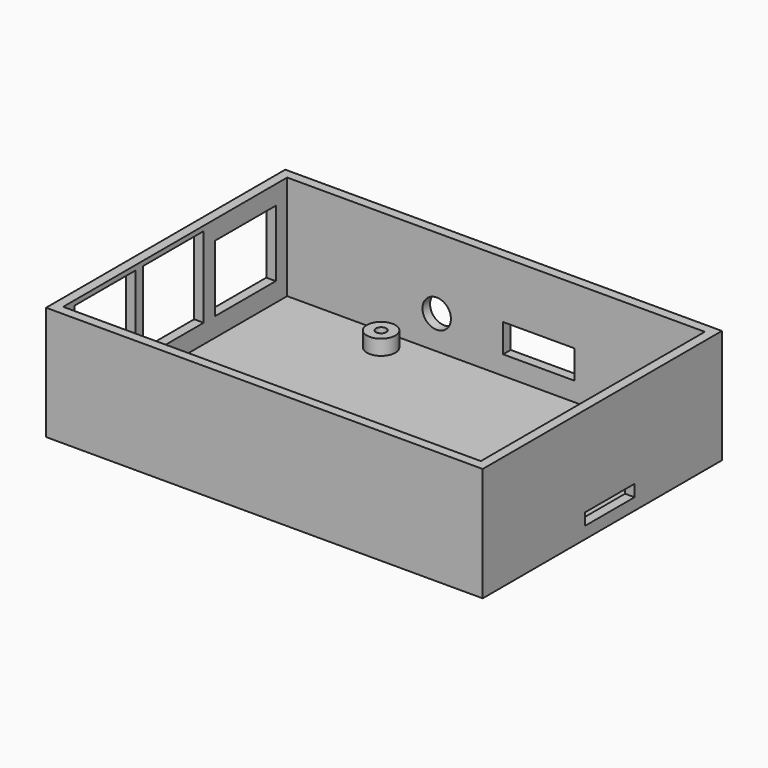
from build123d import *

# Parameters (mm, degrees)
SKETCH006_W   = 13
SKETCH006_H   = 2.5
PAD006_DEPTH  = 3
SKETCH005_R   = 3
SKETCH005_W   = 15
SKETCH005_H   = 6
SKETCH005_W_2 = 9
SKETCH005_H_2 = 3
PAD005_DEPTH  = 3
SKETCH004_W   = 16
SKETCH004_H   = 14
SKETCH004_H_2 = 17
PAD004_DEPTH  = 3
SKETCH003_W   = 92
SKETCH003_H   = 63
SKETCH003_W_2 = 88
SKETCH003_H_2 = 59
PAD003_DEPTH  = 24
SKETCH002_W   = 88
SKETCH002_H   = 59
PAD002_DEPTH  = 2
SKETCH_R      = 1.1
PAD_DEPTH     = 6.5
SKETCH001_R   = 3
PAD001_DEPTH  = 5


with BuildPart() as pad006:
    # Sketch006 → Pad006 (new body)
    with BuildSketch(Plane.YZ.offset(88)):
        with Locations((-27.5, 3.75)):
            Rectangle(SKETCH006_W, SKETCH006_H)
    extrude(amount=PAD006_DEPTH)


with BuildPart() as pad005:
    # Sketch005 → Pad005 (new body)
    with BuildSketch(Plane(origin=(0, 0, 0), x_dir=(-1, 0, 0), z_dir=(0, 1, 0))):
        with Locations((-31.5, 9)):
            Circle(SKETCH005_R)
        with Locations((-53, 9)):
            Rectangle(SKETCH005_W, SKETCH005_H)
        with Locations((-74.4, 7.5)):
            Rectangle(SKETCH005_W_2, SKETCH005_H_2)
    extrude(amount=PAD005_DEPTH)


with BuildPart() as pad004:
    # Sketch004 → Pad004 (new body)
    with BuildSketch(Plane(origin=(0, 0, 0), x_dir=(0, -1, 0), z_dir=(-1, 0, 0))):
        with Locations((11, 13)):
            Rectangle(SKETCH004_W, SKETCH004_H)
        with Locations((30, 14.5)):
            Rectangle(SKETCH004_W, SKETCH004_H_2)
        with Locations((48, 14.5)):
            Rectangle(SKETCH004_W, SKETCH004_H_2)
    extrude(amount=PAD004_DEPTH)


with BuildPart() as cut003:
    # Sketch003 → Pad003 (new body)
    with BuildSketch(Plane.XY):
        with Locations((44, -29.5)):
            Rectangle(SKETCH003_W, SKETCH003_H)
        with Locations((44, -29.5)):
            Rectangle(SKETCH003_W_2, SKETCH003_H_2, mode=Mode.SUBTRACT)
    extrude(amount=PAD003_DEPTH)

    # Cut001: cut Pad004
    add(pad004.part, mode=Mode.SUBTRACT)

    # Cut002: cut Pad005
    add(pad005.part, mode=Mode.SUBTRACT)

    # Cut003: cut Pad006
    add(pad006.part, mode=Mode.SUBTRACT)


with BuildPart() as base:
    # Sketch002 → Pad002 (new body)
    with BuildSketch(Plane.XY):
        with Locations((44, -29.5)):
            Rectangle(SKETCH002_W, SKETCH002_H)
    extrude(amount=PAD002_DEPTH)


with BuildPart() as pad:
    # Sketch → Pad (new body)
    with BuildSketch(Plane.XY.offset(2.5)):
        with Locations((23.5, -3.5)):
            Circle(SKETCH_R)
        with Locations((23.5, -52.5)):
            Circle(SKETCH_R)
        with Locations((81.5, -3.5)):
            Circle(SKETCH_R)
        with Locations((81.5, -52.5)):
            Circle(SKETCH_R)
    extrude(amount=PAD_DEPTH)


with BuildPart() as fusion001:
    # Sketch001 → Pad001 (new body)
    with BuildSketch(Plane.XY.offset(4)):
        with Locations((23.5, -3.5)):
            Circle(SKETCH001_R)
        with Locations((81.5, -3.5)):
            Circle(SKETCH001_R)
        with Locations((81.5, -52.5)):
            Circle(SKETCH001_R)
        with Locations((23.5, -52.5)):
            Circle(SKETCH001_R)
    extrude(amount=PAD001_DEPTH)

    # Cut: cut Pad
    add(pad.part, mode=Mode.SUBTRACT)


with BuildPart() as fusion001_1:
    # Cut placement: moved
    add(fusion001.part.moved(Location((0.000478, -1.138495, -3.808742))))

    # Fusion: union Base
    add(base.part)

    # Fusion001: union Cut003
    add(cut003.part)


solid = fusion001_1.part
